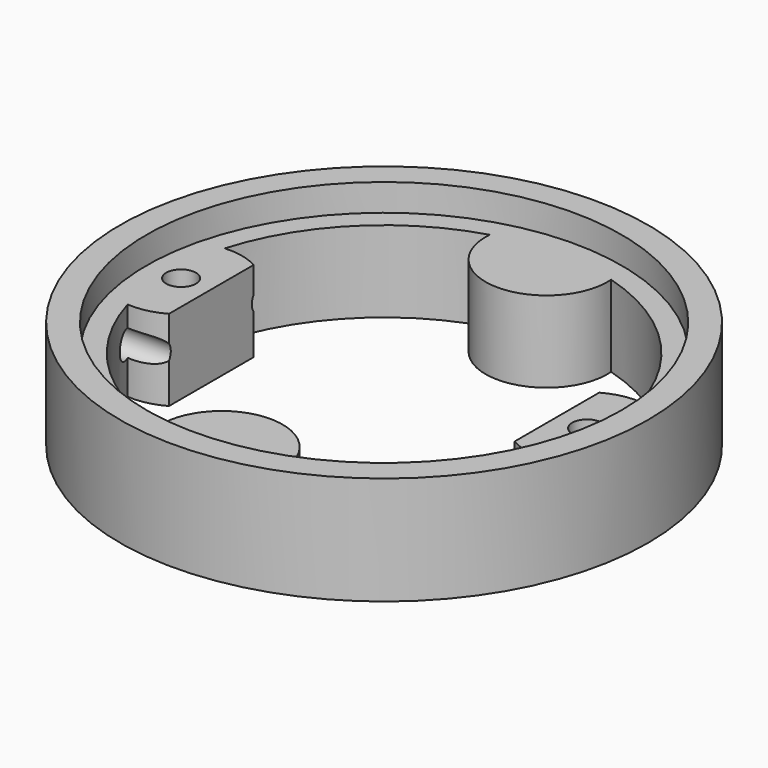
from build123d import *

# Parameters (mm, degrees)
F0_R      = 19.5
F1_DEPTH  = 8
F2_R      = 17.55
F3_DEPTH  = 2
F5_DEPTH  = 6
F6_R      = 1.1
F7_DEPTH  = 6
F8_R      = 3.3
F9_DEPTH  = 3.75
F10_R     = 1
F11_DEPTH = 25
F12_W     = 3.246098
F12_H     = 10.70335
F13_DEPTH = 6


with BuildPart() as f1:
    # F0 (on Top) → F1 (new body)
    with BuildSketch(Plane.XY):
        Circle(F0_R)
    extrude(amount=F1_DEPTH)

    # F2 (on face) → F3 (cut)
    with BuildSketch(Plane.XY.offset(8)):
        Circle(F2_R)
    extrude(amount=-F3_DEPTH, mode=Mode.SUBTRACT)

    # F4 (on face) → F5 (cut)
    with BuildSketch(Plane.XY.offset(6)):
        with BuildLine():
            ThreePointArc((15.358333, -4.48571), (10.5, 0), (15.358333, 4.48571))
            ThreePointArc((15.358333, 4.48571), (11.313708, 11.313708), (4.48571, 15.358333))
            ThreePointArc((4.48571, 15.358333), (0, 10.5), (-4.48571, 15.358333))
            ThreePointArc((-4.48571, 15.358333), (-11.313708, 11.313708), (-15.358333, 4.48571))
            ThreePointArc((-15.358333, 4.48571), (-10.5, 0), (-15.358333, -4.48571))
            ThreePointArc((-15.358333, -4.48571), (-11.313708, -11.313708), (-4.48571, -15.358333))
            ThreePointArc((-4.48571, -15.358333), (0, -10.5), (4.48571, -15.358333))
            ThreePointArc((4.48571, -15.358333), (11.313708, -11.313708), (15.358333, -4.48571))
        make_face()
    extrude(amount=-F5_DEPTH, mode=Mode.SUBTRACT)

    # F6 (on face) → F7 (cut)
    with BuildSketch(Plane.XY.offset(6)):
        with Locations((-15, 0)):
            Circle(F6_R)
        with Locations((15, 0)):
            Circle(F6_R)
    extrude(amount=-F7_DEPTH, mode=Mode.SUBTRACT)

    # F8 (on Top) → F9 (cut)
    with BuildSketch(Plane.XY):
        with Locations((0, 15)):
            Circle(F8_R)
        with Locations((0, -15)):
            Circle(F8_R)
    extrude(amount=F9_DEPTH, mode=Mode.SUBTRACT)

    # F10 (on Right) → F11 (cut)
    with BuildSketch(Plane.YZ):
        with Locations((-4.74, 3.502372)):
            Circle(F10_R)
        with Locations((4.74, 3.502372)):
            Circle(F10_R)
    extrude(amount=-F11_DEPTH, mode=Mode.SUBTRACT)

    # F12 (on face) → F13 (cut)
    with BuildSketch(Plane.XY.offset(6)):
        with Locations((-11.142012, -0.109914)):
            Rectangle(F12_W, F12_H)
        with Locations((11.142012, -0.109914)):
            Rectangle(F12_W, F12_H)
    extrude(amount=-F13_DEPTH, mode=Mode.SUBTRACT)


solid = f1.part
